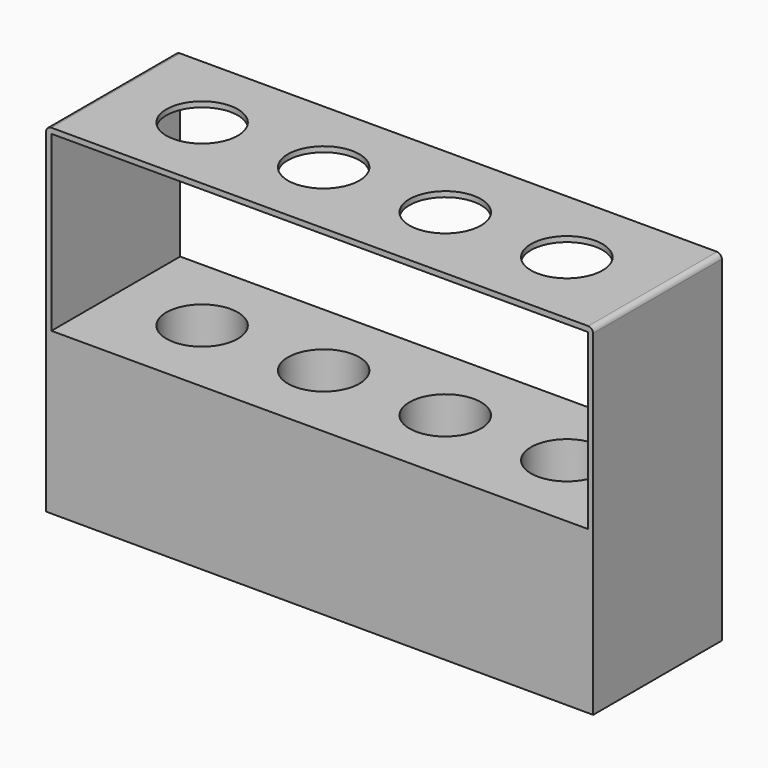
from build123d import *

# Parameters (mm, degrees)
F1_DEPTH = 22.5
F2_DEPTH = 22.5
F3_DEPTH = 22.5
F4_DEPTH = 22.5
F6_D     = 20


with BuildPart() as f1:
    # F0 (on Front) → F1 (new body)
    with BuildSketch(Plane.XZ):
        Polygon((-75.2860918641, -29.9065916457), (-75.2860918641, -74.9065916457), (74.7139081359, -75.1878393225), (74.7139081359, -29.9065916457), align=None)
    extrude(amount=F1_DEPTH)

    # F2 (add): a face of the model
    f2_faces = [f1.faces().sort_by_distance(p)[0] for p in [
        (-0.2082108855, 0, -52.4769765777),
    ]]
    extrude(f2_faces, amount=F2_DEPTH)

    # F0 (on Front) → F3 (join)
    with BuildSketch(Plane.XZ):
        with BuildLine():
            Line((-76.7860918641, -74.9065916457), (-75.2860918641, -74.9065916457))
            Line((-75.2860918641, -74.9065916457), (-75.2860918641, -29.9065916457))
            Line((-75.2860918641, -29.9065916457), (-75.2860918641, 18.5934083543))
            Line((-75.2860918641, 18.5934083543), (74.7139081359, 18.5934083543))
            Line((74.7139081359, 18.5934083543), (74.7139081359, -29.9065916457))
            Line((74.7139081359, -29.9065916457), (74.7139081359, -75.1878393225))
            Line((74.7139081359, -75.1878393225), (76.2139081359, -75.1878393225))
            Line((76.2139081359, -75.1878393225), (76.2139081359, -29.9065916457))
            Line((76.2139081359, -29.9065916457), (76.2139081359, 18.4646829894))
            Line((76.2139081359, 18.4646829894), (76.2139081359, 18.7221337192))
            ThreePointArc((76.2139081359, 18.7221337192), (75.7784667814, 19.6579669998), (74.8426335008, 20.0934083543))
            Line((74.8426335008, 20.0934083543), (74.7139081359, 20.0934083543))
            Line((74.7139081359, 20.0934083543), (74.585182771, 20.0934083543))
            Line((74.585182771, 20.0934083543), (-75.2860918641, 20.0934083543))
            ThreePointArc((-75.2860918641, 20.0934083543), (-76.3467520359, 19.6540685261), (-76.7860918641, 18.5934083543))
            Line((-76.7860918641, 18.5934083543), (-76.7860918641, -29.9065916457))
            Line((-76.7860918641, -29.9065916457), (-76.7860918641, -74.9065916457))
        make_face()
    extrude(amount=F3_DEPTH)

    # F0 (on Front) → F4 (join)
    with BuildSketch(Plane.XZ):
        with BuildLine():
            Line((-76.7860918641, -74.9065916457), (-75.2860918641, -74.9065916457))
            Line((-75.2860918641, -74.9065916457), (-75.2860918641, -29.9065916457))
            Line((-75.2860918641, -29.9065916457), (-75.2860918641, 18.5934083543))
            Line((-75.2860918641, 18.5934083543), (74.7139081359, 18.5934083543))
            Line((74.7139081359, 18.5934083543), (74.7139081359, -29.9065916457))
            Line((74.7139081359, -29.9065916457), (74.7139081359, -75.1878393225))
            Line((74.7139081359, -75.1878393225), (76.2139081359, -75.1878393225))
            Line((76.2139081359, -75.1878393225), (76.2139081359, -29.9065916457))
            Line((76.2139081359, -29.9065916457), (76.2139081359, 18.4646829894))
            Line((76.2139081359, 18.4646829894), (76.2139081359, 18.7221337192))
            ThreePointArc((76.2139081359, 18.7221337192), (75.7784667814, 19.6579669998), (74.8426335008, 20.0934083543))
            Line((74.8426335008, 20.0934083543), (74.7139081359, 20.0934083543))
            Line((74.7139081359, 20.0934083543), (74.585182771, 20.0934083543))
            Line((74.585182771, 20.0934083543), (-75.2860918641, 20.0934083543))
            ThreePointArc((-75.2860918641, 20.0934083543), (-76.3467520359, 19.6540685261), (-76.7860918641, 18.5934083543))
            Line((-76.7860918641, 18.5934083543), (-76.7860918641, -29.9065916457))
            Line((-76.7860918641, -29.9065916457), (-76.7860918641, -74.9065916457))
        make_face()
    extrude(amount=-F4_DEPTH)

    # F6 (through all)
    with Locations(Plane.XY.offset(20.0934083543)):
        with Locations((-51.1573664992, 0), (-17.1573664992, 0), (16.8426335008, 0), (50.8426335008, 0)):
            Hole(F6_D / 2)


solid = f1.part
